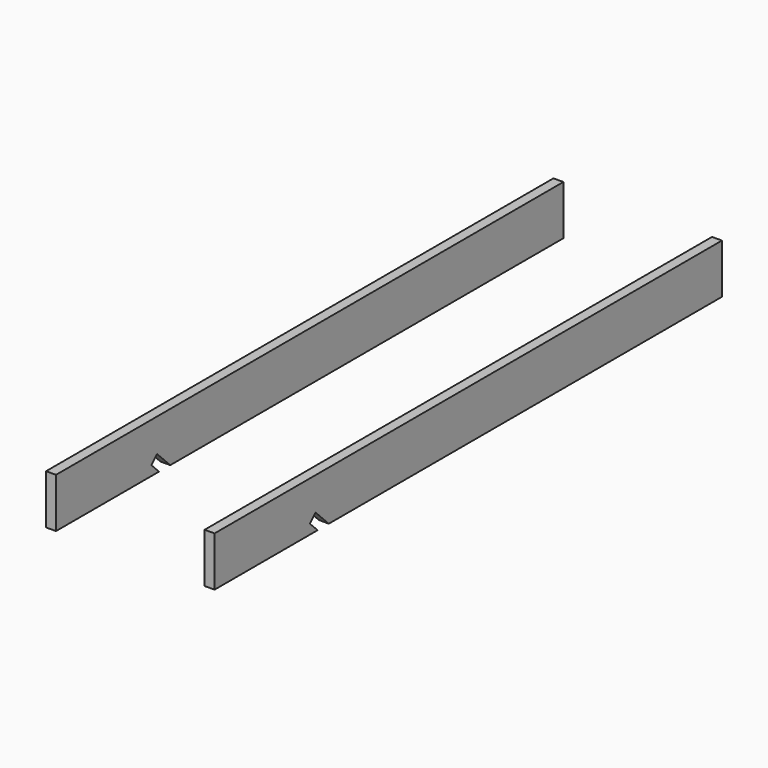
from build123d import *

# Parameters (mm, degrees)
F0_W     = 38.1
F0_H     = 190.5
F1_DEPTH = 2438.4
F3_DEPTH = 914.4


with BuildPart() as f1:
    # F0 (on Front) → F1 (new body)
    with BuildSketch(Plane.XZ):
        with Locations((-19.05, 95.25)):
            Rectangle(F0_W, F0_H)
        with Locations((590.55, 95.25)):
            Rectangle(F0_W, F0_H)
    extrude(amount=F1_DEPTH)

    # F2 (on face) → F3 (cut)
    with BuildSketch(Plane.YZ.offset(609.6)):
        Polygon((-1980.133644, 37.033644), (-1943.1, 0), (-1889.218463, 0), (-1953.192876, 63.974413), align=None)
    extrude(amount=-F3_DEPTH, mode=Mode.SUBTRACT)


solid = f1.part
